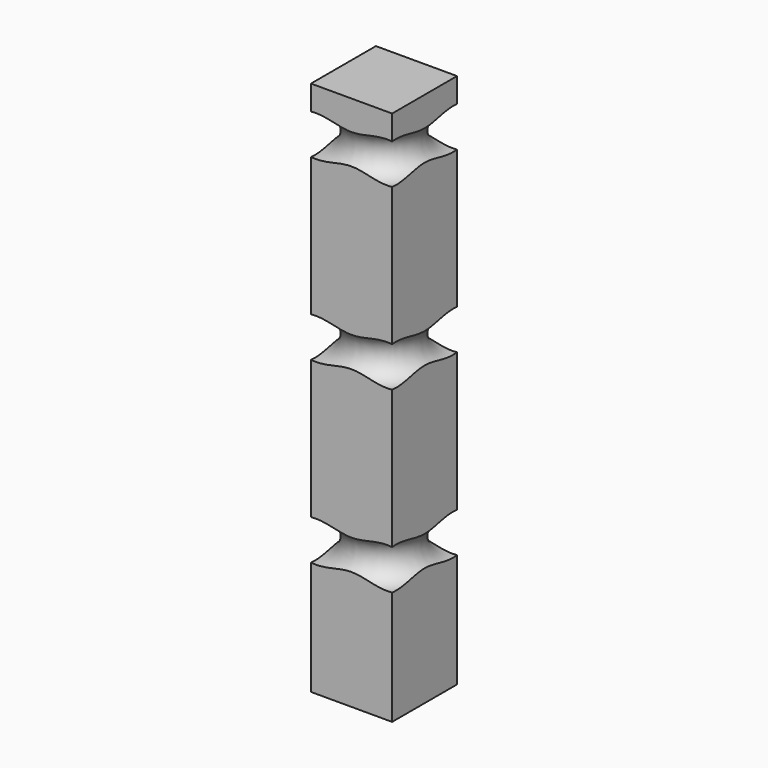
from build123d import *

# Parameters (mm, degrees)
TORUS001_R       = 25
ARRAY003_Z_COUNT = 3
ARRAY003_Z_PITCH = 220
SKETCH004_W      = 100
SKETCH004_H      = 100
PAD005_DEPTH     = 660


with BuildPart() as obj1:
    # Torus001 → Torus001 (revolve)
    with BuildSketch(Plane(origin=(-650, 0, 165), x_dir=(1, 0, 0), z_dir=(0, -1, 0))):
        with Locations((66.666667, 0)):
            Circle(TORUS001_R)
    revolve(axis=Axis((-650, 0, 165), (0, 0, 1)))

    # Array003 Z: obj1 ×3


with BuildPart() as obj1_1:
    add(obj1.part)
    with Locations(*[(0, 0, i * ARRAY003_Z_PITCH) for i in range(1, ARRAY003_Z_COUNT)]):
        add(obj1.part)


with BuildPart() as cut_leg_left:
    # Sketch004 → Pad005 (new body)
    with BuildSketch(Plane.XY):
        with Locations((-650, 0)):
            Rectangle(SKETCH004_W, SKETCH004_H)
    extrude(amount=PAD005_DEPTH)

    # Cut001: cut obj1
    add(obj1_1.part, mode=Mode.SUBTRACT)


solid = cut_leg_left.part
